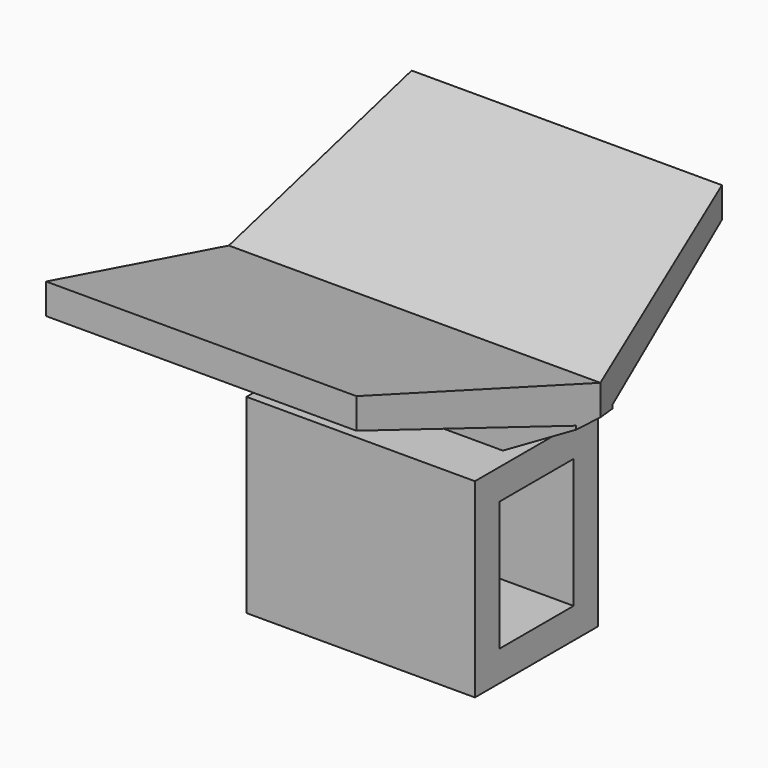
from build123d import *

# Parameters (mm, degrees)
F0_W     = 10.1
F0_H     = 12.5
F0_W_2   = 6.1
F0_H_2   = 8.5
F1_DEPTH = 15
F3_DEPTH = 1.5
F5_DEPTH = 24.3923048454
F7_DEPTH = 25


with BuildPart() as f1:
    # F0 (on Right) → F1 (new body)
    with BuildSketch(Plane.YZ):
        Rectangle(F0_W, F0_H)
        Rectangle(F0_W_2, F0_H_2, mode=Mode.SUBTRACT)
    extrude(amount=F1_DEPTH)

    # F2 (on Front) → F3 (join, symmetric)
    with BuildSketch(Plane.XZ):
        Polygon((-5.1961524227, 9.25), (0, 6.25), (14, 6.25), (19.1961524227, 9.25), (19.1961524227, 11.25), (-5.1961524227, 11.25), align=None)
    extrude(amount=F3_DEPTH, both=True)

    # F4 (on face) → F5 (join, through all)
    with BuildSketch(Plane(origin=(-5.1961524227, 0, 0), x_dir=(0, -1, 0), z_dir=(-1, 0, 0))):
        Polygon((15, 15.2692378865), (0, 11.25), (1.5, 9.25), (15, 13.2692378865), align=None)
        Polygon((-1.5, 9.25), (0, 11.25), (-15, 15.2692378865), (-15, 13.2692378865), align=None)
    extrude(amount=-F5_DEPTH)

    # F6 (on Top) → F7 (cut)
    with BuildSketch(Plane.XY):
        Polygon((14.1379434391, 18.8774929223), (19.1961524227, 0), (14.1379434391, -18.8774929223), (27.2481460124, -18.8774929223), (27.2481460124, 0), (27.2481460124, 18.8774929223), align=None)
    extrude(amount=F7_DEPTH, mode=Mode.SUBTRACT)


solid = f1.part
